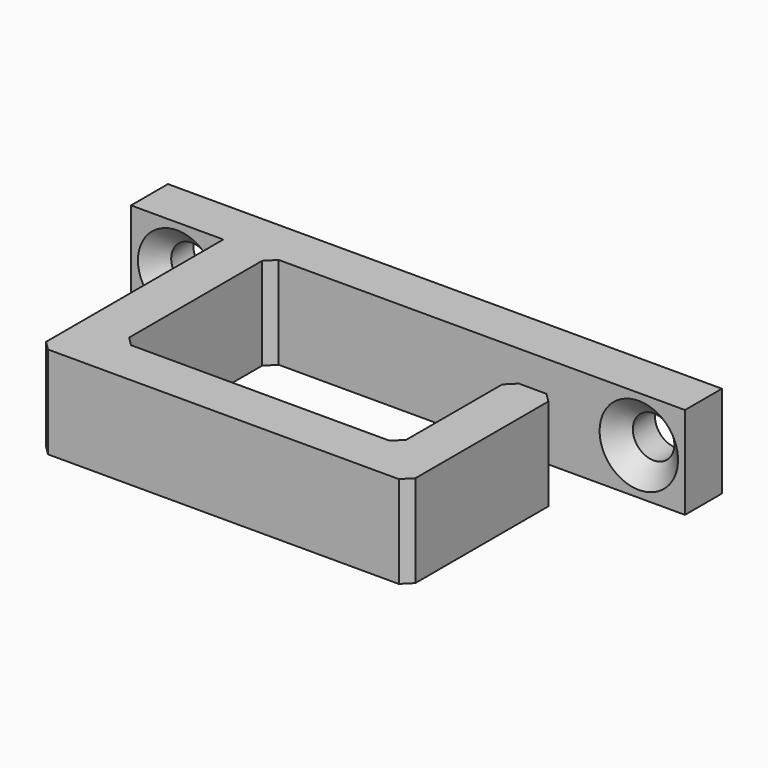
from build123d import *

# Parameters (mm, degrees)
F1_DEPTH       = 10
F3_D           = 4.5
F3_CSINK_D     = 8.5
F3_CSINK_ANGLE = 90
F4_SIZE        = 1


with BuildPart() as f1:
    # F0 (on Top) → F1 (new body)
    with BuildSketch(Plane.XY):
        Polygon((60, 0), (0, 0), (0, -5), (10, -5), (10, -30), (50, -30), (50, -10), (45, -10), (45, -25), (15, -25), (15, -5), (60, -5), align=None)
    extrude(amount=F1_DEPTH)

    # F3 (through all)
    with Locations(Plane.XZ.offset(5)):
        with Locations((5, 5), (55, 5)):
            CounterSinkHole(F3_D / 2, F3_CSINK_D / 2, counter_sink_angle=F3_CSINK_ANGLE)

    # F4
    f4_edges = [f1.edges().sort_by_distance(p)[0] for p in [
        (50, -10, 5),
        (45, -10, 5),
        (15, -5, 5),
        (15, -25, 5),
        (45, -25, 5),
        (50, -30, 5),
        (10, -30, 5),
    ]]
    chamfer(f4_edges, length=F4_SIZE)


solid = f1.part
